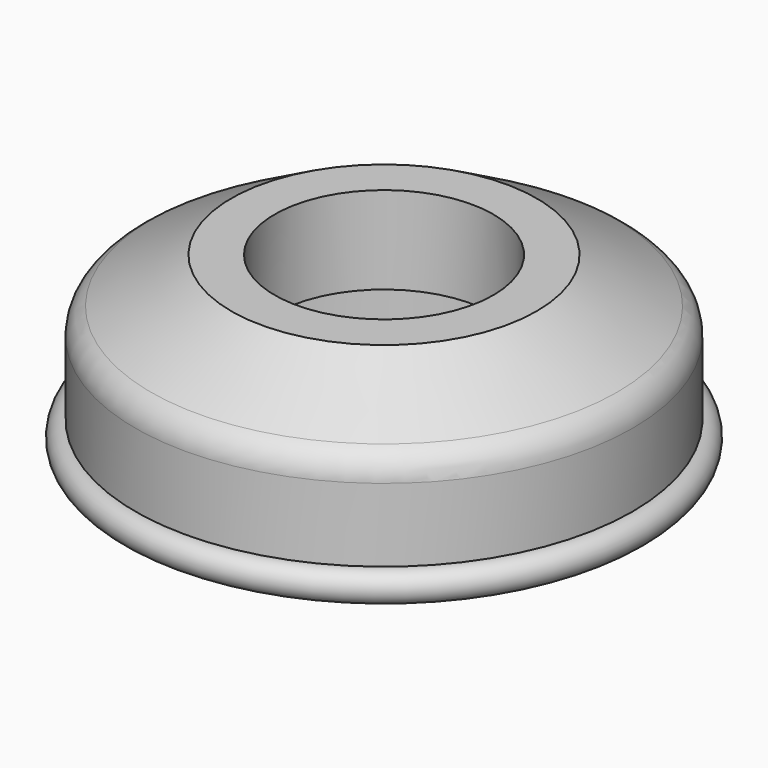
from build123d import *


with BuildPart() as f1:
    # F0 (on Front) → F1 (revolve)
    with BuildSketch(Plane.XZ):
        with BuildLine():
            Line((22.69998, 6.78688), (22.69998, 0))
            Line((22.69998, 0), (25.8445, 0))
            ThreePointArc((25.8445, 0), (27.432, 1.5875), (25.8445, 3.175))
            Line((25.8445, 3.175), (25.8445, 10.795))
            ThreePointArc((25.8445, 10.795), (25.410399, 12.397529), (24.226801, 13.561847))
            Line((24.226801, 13.561847), (15.875, 18.2626))
            Line((15.875, 18.2626), (11.3665, 18.2626))
            Line((11.3665, 18.2626), (11.3665, 9.1694))
            Line((11.3665, 9.1694), (20.31746, 9.1694))
            ThreePointArc((20.31746, 9.1694), (22.002156, 8.471576), (22.69998, 6.78688))
        make_face()
    revolve(axis=Axis((0, 0, 12.780054), (0, 0, 1)))


solid = f1.part
